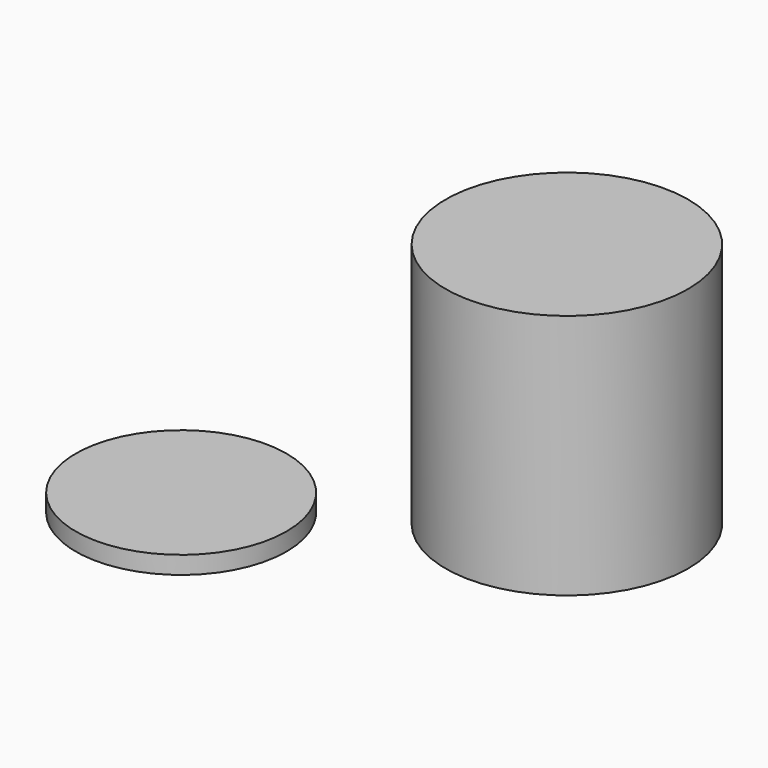
from build123d import *

# Parameters (mm, degrees)
F0_R     = 20.55
F1_DEPTH = 41.6972
F2_R     = 17.196368
F3_DEPTH = 38.1
F4_R     = 17.866324
F5_DEPTH = 3


with BuildPart() as f1:
    # F0 (on Top) → F1 (new body)
    with BuildSketch(Plane.XY):
        Circle(F0_R)
    extrude(amount=F1_DEPTH)

    # F2 (on Top) → F3 (cut)
    with BuildSketch(Plane.XY):
        Circle(F2_R)
    extrude(amount=F3_DEPTH, mode=Mode.SUBTRACT)


with BuildPart() as f5:
    # F4 (on Top) → F5 (new body)
    with BuildSketch(Plane.XY):
        with Locations((-41.849427, -29.383641)):
            Circle(F4_R)
    extrude(amount=F5_DEPTH)


solid = Compound([f1.part, f5.part])
